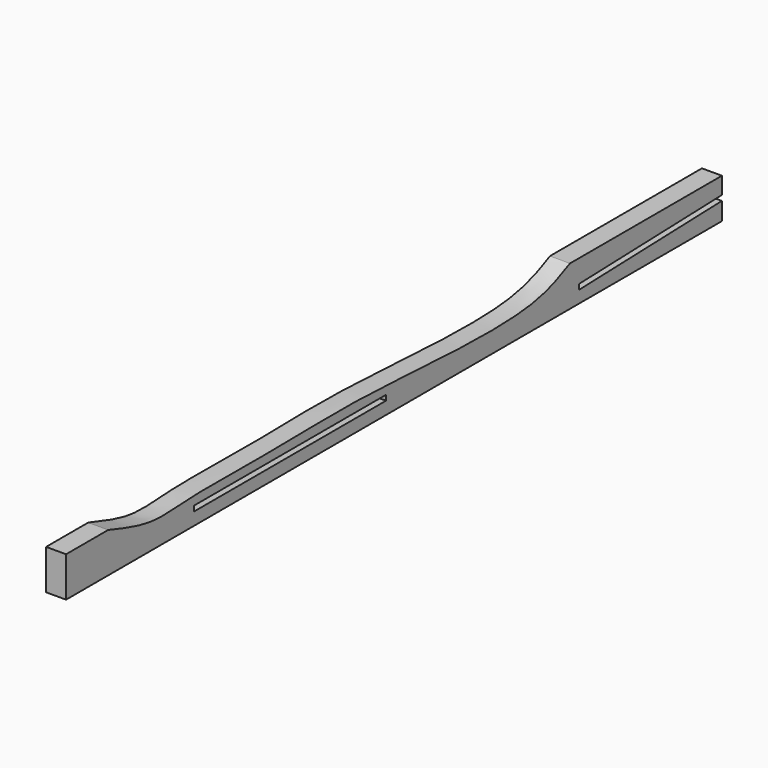
from build123d import *

# Parameters (mm, degrees)
F0_W     = 260.35
F0_H     = 12.7
F1_DEPTH = 6.35
F3_DEPTH = 25.4
F4_W     = 76.2
F4_H     = 1.651
F5_DEPTH = 25.4
F7_DEPTH = 25.4


with BuildPart() as f1:
    # F0 (on Right) → F1 (new body)
    with BuildSketch(Plane.YZ):
        with Locations((-31.1001208002, 21.8715034425)):
            Rectangle(F0_W, F0_H)
    extrude(amount=F1_DEPTH)

    # F2 (on face) → F3 (cut)
    with BuildSketch(Plane.YZ.offset(6.35)):
        Polygon((99.0748791998, 21.1856181787), (99.0748791998, 22.837460041), (42.2756113112, 21.0233647376), (42.3283152459, 19.3732061709), align=None)
    extrude(amount=-F3_DEPTH, mode=Mode.SUBTRACT)

    # F4 (on face) → F5 (cut)
    with BuildSketch(Plane.YZ.offset(6.35)):
        with Locations((-72.3751208002, 20.3488284017)):
            Rectangle(F4_W, F4_H)
    extrude(amount=-F5_DEPTH, mode=Mode.SUBTRACT)

    # F6 (on face) → F7 (cut)
    with BuildSketch(Plane.YZ.offset(6.35)):
        with BuildLine():
            add(Edge.make_bspline(
                [(38.7411899865, 28.2215034425), (34.4196630123, 26.0953657207), (22.6351323578, 20.2975226646), (-28.3812441061, 23.6166453568), (-54.3466635925, 24.5561071775), (-77.5025200152, 23.6378317044), (-112.0202918606, 24.5180769569), (-127.1029891925, 22.3998170636), (-138.6074726059, 26.2345090709), (-144.5686668158, 28.2215034425)],
                knots=[0, 0, 0, 0, 0.1168440117, 0.3186262276, 0.4662399176, 0.6031622473, 0.7689686463, 0.8802881695, 1, 1, 1, 1], degree=3))
            Line((38.7411899865, 28.2215034425), (-144.5686668158, 28.2215034425))
        make_face()
    extrude(amount=-F7_DEPTH, mode=Mode.SUBTRACT)


solid = f1.part
